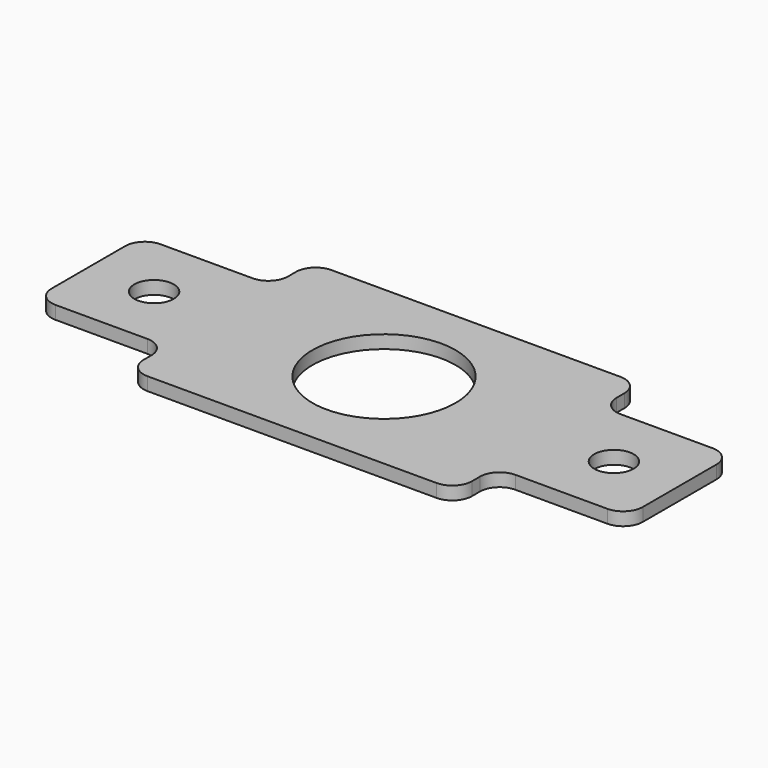
from build123d import *

# Parameters (mm, degrees)
F0_R     = 11.5
F0_W     = 20
F0_H     = 20
F0_R_2   = 3
F0_R_3   = 10.9
F1_DEPTH = 2
F2_R     = 3


with BuildPart() as f1:
    # F0 (on Top) → F1 (new body)
    with BuildSketch(Plane.XY):
        Polygon((25, 17.5), (-25, 17.5), (-25, 10), (-25, -10), (-25, -17.5), (25, -17.5), (25, -10), (25, 10), align=None)
        Circle(F0_R, mode=Mode.SUBTRACT)
        with Locations((-35, 0)):
            Rectangle(F0_W, F0_H)
        with Locations((-35, 0)):
            Circle(F0_R_2, mode=Mode.SUBTRACT)
        with Locations((35, 0)):
            Rectangle(F0_W, F0_H)
        with Locations((35, 0)):
            Circle(F0_R_2, mode=Mode.SUBTRACT)
        Circle(F0_R)
        Circle(F0_R_3, mode=Mode.SUBTRACT)
    extrude(amount=F1_DEPTH)

    # F2
    f2_edges = [f1.edges().sort_by_distance(p)[0] for p in [
        (-25, -10, 1),
        (-25, 10, 1),
        (25, 10, 1),
        (25, -10, 1),
        (25, 17.5, 1),
        (25, -17.5, 1),
        (-25, -17.5, 1),
        (-25, 17.5, 1),
        (-45, 10, 1),
        (-45, -10, 1),
        (45, -10, 1),
        (45, 10, 1),
    ]]
    fillet(f2_edges, radius=F2_R)


solid = f1.part
